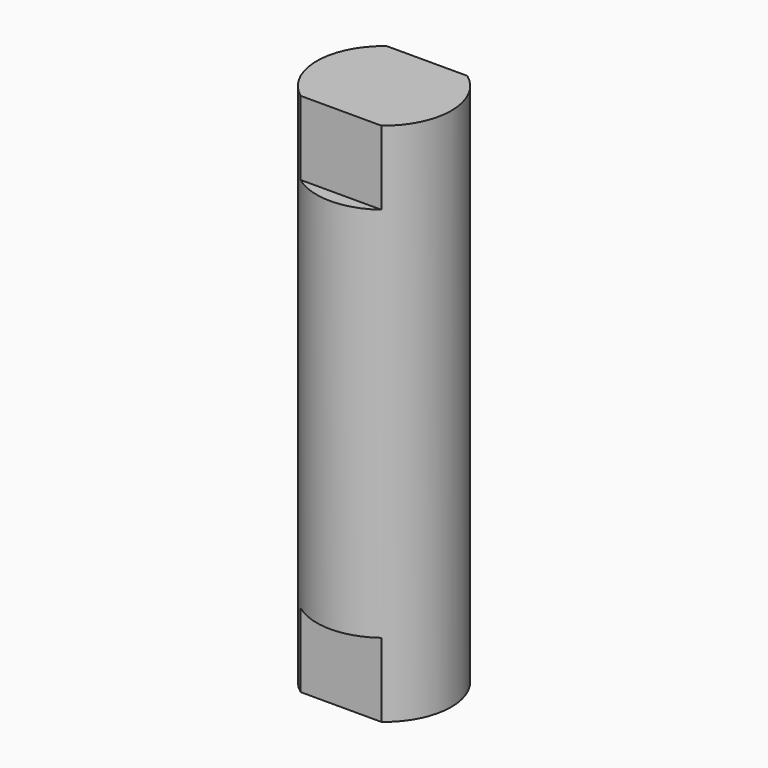
from build123d import *

# Parameters (mm, degrees)
SKETCH_R        = 2.5
PAD_DEPTH       = 19.5
POCKET_DEPTH    = 2.75
POCKET001_DEPTH = 2.75


with BuildPart() as part:
    # Sketch → Pad (new body)
    with BuildSketch(Plane.XY):
        Circle(SKETCH_R)
    extrude(amount=PAD_DEPTH)

    # Sketch001 → Pocket (cut)
    with BuildSketch(Plane(origin=(0, 0, 0), x_dir=(1, 0, 0), z_dir=(0, 0, -1))):
        with BuildLine():
            ThreePointArc((1.5, 2), (0, 2.5), (-1.5, 2))
            Line((-1.5, 2), (1.5, 2))
        make_face()
        with BuildLine():
            ThreePointArc((-1.5, -2), (0, -2.5), (1.5, -2))
            Line((-1.5, -2), (1.5, -2))
        make_face()
    extrude(amount=-POCKET_DEPTH, mode=Mode.SUBTRACT)

    # Sketch002 → Pocket001 (cut)
    with BuildSketch(Plane.XY.offset(19.5)):
        with BuildLine():
            ThreePointArc((1.5, 2), (0, 2.5), (-1.5, 2))
            Line((-1.5, 2), (1.5, 2))
        make_face()
        with BuildLine():
            ThreePointArc((-1.5, -2), (0, -2.5), (1.5, -2))
            Line((-1.5, -2), (1.5, -2))
        make_face()
    extrude(amount=-POCKET001_DEPTH, mode=Mode.SUBTRACT)


solid = part.part
